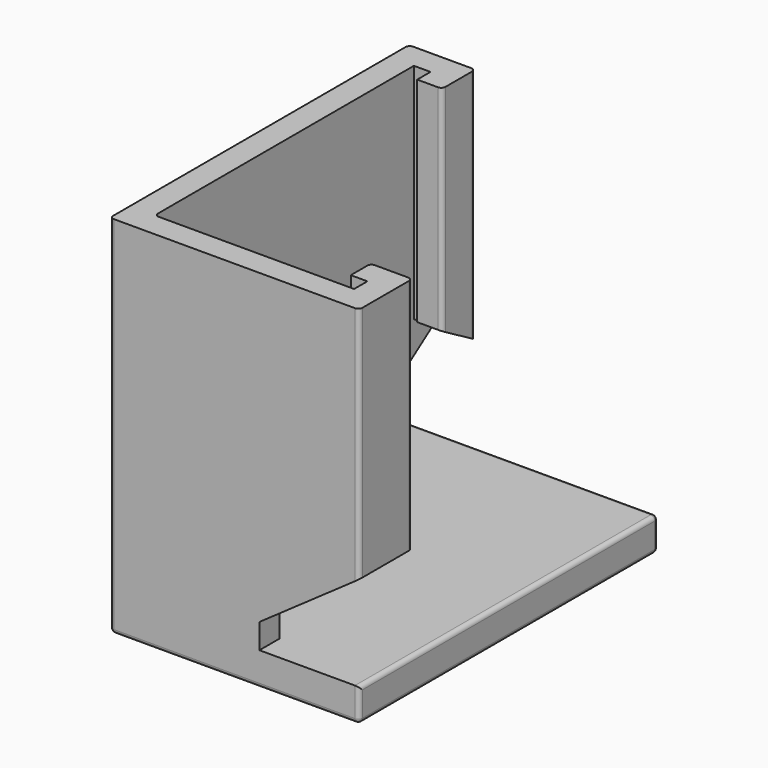
from build123d import *

# Parameters (mm, degrees)
F1_DEPTH  = 40
F2_W      = 30
F2_H      = 45
F3_DEPTH  = 4
F5_DEPTH  = 45.001
F7_DEPTH  = 42.001
F9_DEPTH  = 30.001
F11_DEPTH = 5
F12_R     = 0.5


with BuildPart() as f1:
    # F0 (on Top) → F1 (new body)
    with BuildSketch(Plane.XY):
        Polygon((0, 0), (30, 0), (30, 8), (25, 8), (25, 5), (27, 5), (27, 3), (3, 3), (3, 42), (5, 42), (5, 40), (8, 40), (8, 45), (0, 45), align=None)
    extrude(amount=F1_DEPTH)

    # F2 (on Top) → F3 (join)
    with BuildSketch(Plane.XY):
        with Locations((15, 22.5)):
            Rectangle(F2_W, F2_H)
    extrude(amount=-F3_DEPTH)

    # F4 (on Front) → F5 (cut, through all)
    with BuildSketch(Plane.XZ):
        Polygon((18, 0), (30, 0), (30, 11.40249), (18, 3), align=None)
    extrude(amount=-F5_DEPTH, mode=Mode.SUBTRACT)

    # F6 (on face) → F7 (cut, through all)
    with BuildSketch(Plane(origin=(0, 3, 0), x_dir=(-1, 0, 0), z_dir=(0, 1, 0))):
        Polygon((-18, 3), (-18, 19.804981), (-30, 11.40249), (-30, 3), align=None)
    extrude(amount=F7_DEPTH, mode=Mode.SUBTRACT)

    # F8 (on Right) → F9 (cut, through all)
    with BuildSketch(Plane.YZ):
        Polygon((33, 0), (45, 0), (45, 11.40249), (33, 3), align=None)
    extrude(amount=F9_DEPTH, mode=Mode.SUBTRACT)

    # F10 (on face) → F11 (cut, through all)
    with BuildSketch(Plane.YZ.offset(8)):
        Polygon((40, 7.901453), (45, 11.40249), (40, 14.289242), align=None)
    extrude(amount=-F11_DEPTH, mode=Mode.SUBTRACT)

    # F12
    f12_edges = [f1.edges().sort_by_distance(p)[0] for p in [
        (0, 45, 25.701245),
        (0, 45, -2),
        (0, 0, 18),
        (30, 0, 25.701245),
        (30, 0, -2),
        (30, 8, 25.701245),
        (8, 40, 27.144621),
        (8, 45, 25.701245),
        (30, 22.5, 0),
        (30, 22.5, -4),
        (15, 45, 0),
        (15, 45, -4),
        (30, 45, -2),
        (25, 8, 27.451764),
        (15, 0, -4),
        (0, 22.5, -4),
        (3, 3, 20),
    ]]
    fillet(f12_edges, radius=F12_R)


solid = f1.part
